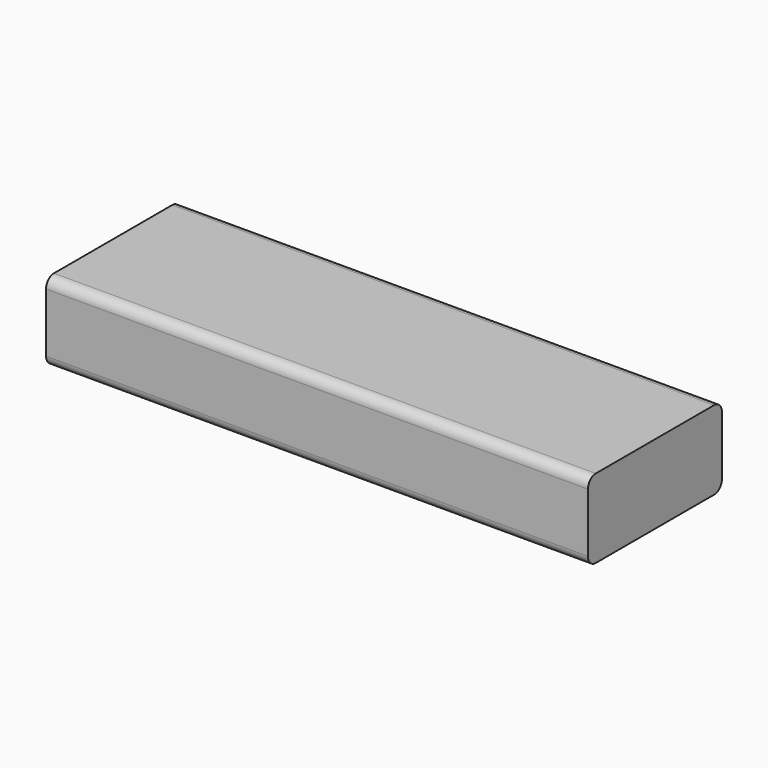
from build123d import *

# Parameters (mm, degrees)
F2_DEPTH = 55
F3_W     = 12.4
F3_H     = 5
F4_DEPTH = 14
F6_ANGLE = 90


with BuildPart() as f2:
    # F1 (on face) → F2 (new body)
    with BuildSketch(Plane.XZ):
        with BuildLine():
            Line((7.5, 4), (-7.5, 4))
            ThreePointArc((-7.5, 4), (-8.2071067812, 3.7071067812), (-8.5, 3))
            Line((-8.5, 3), (-8.5, -3))
            ThreePointArc((-8.5, -3), (-8.2071067812, -3.7071067812), (-7.5, -4))
            Line((-7.5, -4), (7.5, -4))
            ThreePointArc((7.5, -4), (8.2071067812, -3.7071067812), (8.5, -3))
            Line((8.5, -3), (8.5, 3))
            ThreePointArc((8.5, 3), (8.2071067812, 3.7071067812), (7.5, 4))
        make_face()
    extrude(amount=F2_DEPTH)

    # F3 (on face) → F4 (cut)
    with BuildSketch(Plane.XZ.offset(55)):
        Rectangle(F3_W, F3_H)
    extrude(amount=-F4_DEPTH, mode=Mode.SUBTRACT)


with BuildPart() as f2_1:
    # F6: moved
    add(f2.part.rotate(Axis((-8.5, -55, 0), (0, 0, -1)), F6_ANGLE))


solid = f2_1.part
